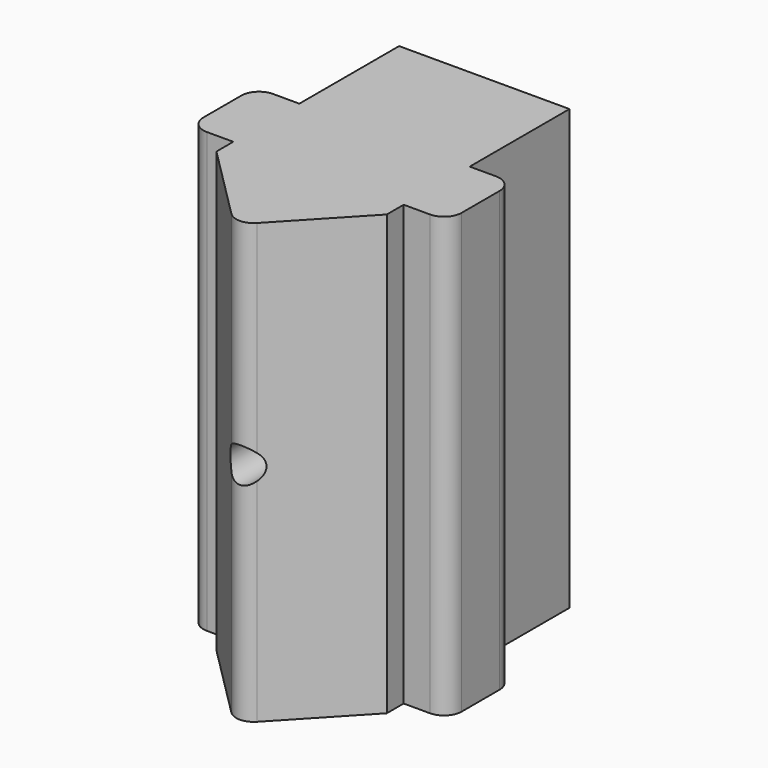
from build123d import *

# Parameters (mm, degrees)
F0_W     = 9.7
F0_H     = 7.1
F0_H_2   = 4.7
F0_W_2   = 2.5
F0_H_3   = 1.2
F1_DEPTH = 25
F2_R     = 1
F3_R     = 1
F4_DEPTH = 17.5645790518
F5_R     = 1
F6_DEPTH = 22.29565


with BuildPart() as f1:
    # F0 (on Top) → F1 (new body)
    with BuildSketch(Plane.XY):
        with Locations((-0.15, -0.179021287)):
            Rectangle(F0_W, F0_H)
        with Locations((-0.15, -6.079021287)):
            Rectangle(F0_W, F0_H_2)
        with Locations((-6.25, -6.079021287)):
            Rectangle(F0_W_2, F0_H_2)
        with Locations((5.95, -6.079021287)):
            Rectangle(F0_W_2, F0_H_2)
        with Locations((-0.15, -9.029021287)):
            Rectangle(F0_W, F0_H_3)
        Polygon((4.7, -9.629021287), (-5, -9.629021287), (0, -14.629021287), align=None)
    extrude(amount=F1_DEPTH)

    # F2
    f2_edges = [f1.edges().sort_by_distance(p)[0] for p in [
        (-7.5, -3.729021, 12.5),
        (-7.5, -8.429021, 12.5),
        (7.2, -3.729021, 12.5),
        (7.2, -8.429021, 12.5),
        (0, -14.629021, 12.5),
    ]]
    fillet(f2_edges, radius=F2_R)

    # F3 (on face) → F4 (cut, through all)
    with BuildSketch(Plane(origin=(0, 3.370978713, 0), x_dir=(-1, 0, 0), z_dir=(0, 1, 0))):
        with Locations((0, 12.7671947703)):
            Circle(F3_R)
    extrude(amount=-F4_DEPTH, mode=Mode.SUBTRACT)

    # F5 (on face) → F6 (cut)
    with BuildSketch(Plane(origin=(0, 3.370978713, 0), x_dir=(-1, 0, 0), z_dir=(0, 1, 0))):
        with Locations((0, 18.7855240438)):
            Circle(F5_R)
    extrude(amount=F6_DEPTH, mode=Mode.SUBTRACT)


solid = f1.part
